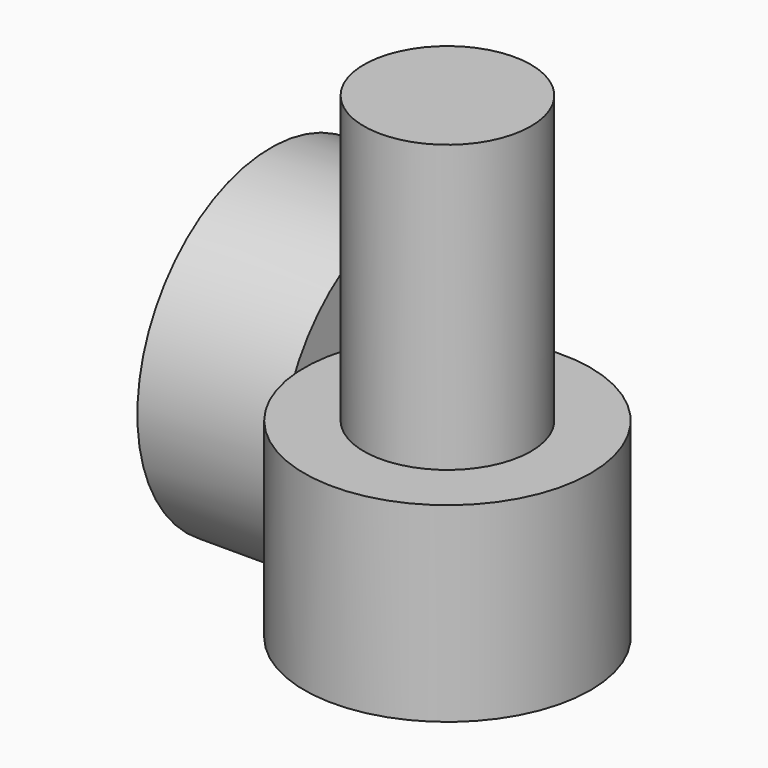
from build123d import *

# Parameters (mm, degrees)
SKETCH044_R       = 3.5
SKETCH044_R_2     = 2
EXTRUDE011_DEPTH  = 3
CYLINDER023_R     = 1.75
CYLINDER023_DEPTH = 10
CYLINDER024_R     = 3
CYLINDER024_DEPTH = 4


with BuildPart() as obj1:
    # Sketch044 → Extrude011 (new body)
    with BuildSketch(Plane.YZ):
        with Locations((79, 2)):
            Circle(SKETCH044_R)
        with Locations((79, 2)):
            Circle(SKETCH044_R_2, mode=Mode.SUBTRACT)
    extrude(amount=EXTRUDE011_DEPTH)


with BuildPart() as obj1_1:
    # Extrude011 placement: moved
    add(obj1.part.moved(Location((35.5, 10, 0))))


with BuildPart() as m3cut:
    # Cylinder023 → Cylinder023 (new body)
    with BuildSketch(Plane(origin=(42, 85.5, 0), x_dir=(1, 0, 0), z_dir=(0, 0, 1))):
        Circle(CYLINDER023_R)
    extrude(amount=CYLINDER023_DEPTH)


with BuildPart() as bottomcut001:
    # Cylinder024 → Cylinder024 (new body)
    with BuildSketch(Plane(origin=(42, 85.5, 0), x_dir=(1, 0, 0), z_dir=(0, 0, 1))):
        Circle(CYLINDER024_R)
    extrude(amount=CYLINDER024_DEPTH)

    # Fusion026: union m3Cut
    add(m3cut.part)

    # Fusion029: union obj1
    add(obj1_1.part)


solid = bottomcut001.part
